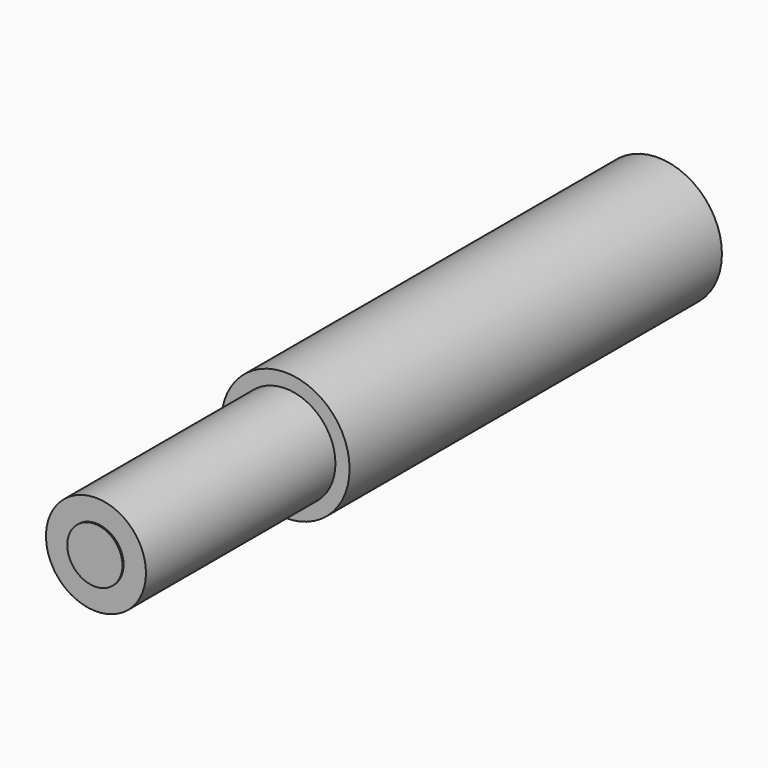
from build123d import *


with BuildPart() as f1:
    # F0 (on Top) → F1 (revolve)
    with BuildSketch(Plane.XY):
        Polygon((2.25, 0), (0, 0), (0, -50.5), (4, -50.5), (4, -50.3), (7.25, -50.3), (7.25, -2.2), (2.25, -2.2), align=None)
    revolve(axis=Axis((0, 17.907274, 0), (0, -1, 0)))


with BuildPart() as f3:
    # F2 (on Top) → F3 (revolve)
    with BuildSketch(Plane.XY):
        Polygon((1.9, 34.849632), (0, 34.849632), (0, -9.650368), (3, -9.650368), (3, -9.499413), (5.25, -9.499413), (5.25, 34.049632), (1.9, 34.049632), align=None)
    revolve(axis=Axis((0, 12.599632, 0), (0, 1, 0)))


with BuildPart() as f5:
    # F4 (on Top) → F5 (revolve)
    with BuildSketch(Plane.XY):
        Polygon((2.5, 53.045089), (0, 53.045089), (0, -15.954911), (9.3, -15.954911), (9.3, 51.545089), (2.5, 51.545089), align=None)
    revolve(axis=Axis((0, 18.545089, 0), (0, 1, 0)))


solid = Compound([f1.part, f3.part, f5.part])
